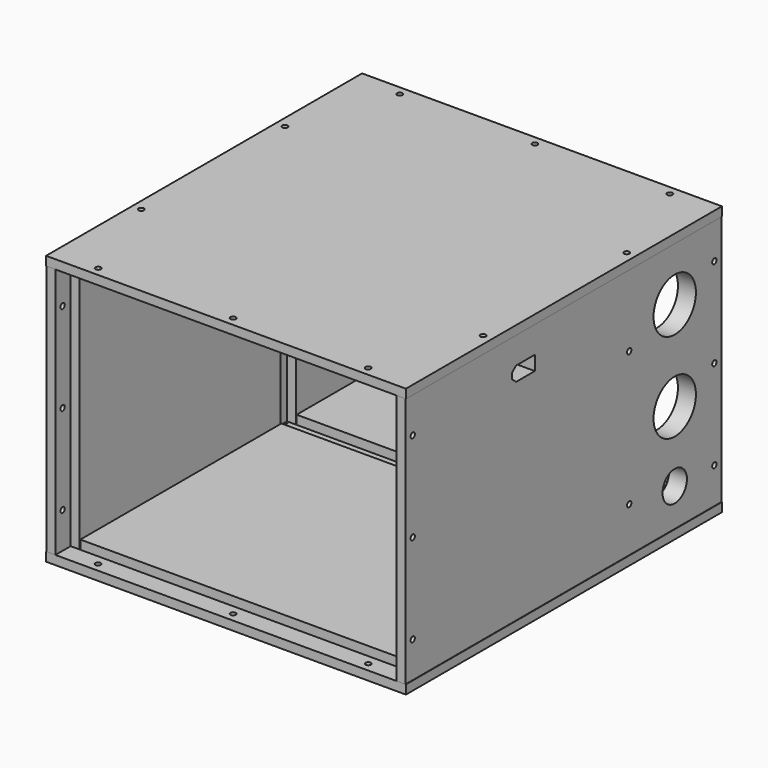
from build123d import *

# Parameters (mm, degrees)
SKETCH_W                = 200.4
SKETCH_H                = 220
PAD_DEPTH               = 5
SKETCH001_W             = 179.2
SKETCH001_H             = 48.2
SKETCH001_H_2           = 140
PAD001_DEPTH            = 5
SKETCH002_R             = 1.5
POCKET_DEPTH            = 5
SKETCH003_W             = 200.4
SKETCH003_H             = 220
PAD002_DEPTH            = 5
SKETCH004_W             = 179.2
SKETCH004_H             = 48.2
SKETCH004_H_2           = 140
PAD003_DEPTH            = 5
SKETCH005_R             = 1.5
POCKET001_DEPTH         = 5
BODY001_PLACEMENT_ANGLE = 180
SKETCH006_W             = 220
SKETCH006_H             = 140
PAD004_DEPTH            = 5
PAD005_DEPTH            = 5
SKETCH008_R             = 1.5
POCKET002_DEPTH         = 5
SKETCH009_W             = 220
SKETCH009_H             = 140
PAD006_DEPTH            = 5
PAD007_DEPTH            = 5
SKETCH011_R             = 1.5
POCKET003_DEPTH         = 5
SKETCH012_R             = 14.75
SKETCH012_R_2           = 8.5
POCKET004_DEPTH         = 10
BODY003_PLACEMENT_ANGLE = 180


with BuildPart() as grundplatte:
    # Sketch → Pad (new body)
    with BuildSketch(Plane.XY):
        Rectangle(SKETCH_W, SKETCH_H)
    extrude(amount=PAD_DEPTH)

    # Sketch001 (on Face6 of Pad) → Pad001 (join)
    with BuildSketch(Plane.XY.offset(5)):
        with Locations((0, 75.3)):
            Rectangle(SKETCH001_W, SKETCH001_H)
        with Locations((0, -29.4)):
            Rectangle(SKETCH001_W, SKETCH001_H_2)
    extrude(amount=PAD001_DEPTH)

    # Sketch002 (on Face5 of Pad001) → Pocket (cut)
    with BuildSketch(Plane.XY.offset(5)):
        with Locations((-75.2, 105)):
            Circle(SKETCH002_R)
        with Locations((0, 105)):
            Circle(SKETCH002_R)
        with Locations((75.2, 105)):
            Circle(SKETCH002_R)
        with Locations((-75.2, -105)):
            Circle(SKETCH002_R)
        with Locations((0, -105)):
            Circle(SKETCH002_R)
        with Locations((75.2, -105)):
            Circle(SKETCH002_R)
        with Locations((-95.2, 50)):
            Circle(SKETCH002_R)
        with Locations((-95.2, -50)):
            Circle(SKETCH002_R)
        with Locations((95.2, 50)):
            Circle(SKETCH002_R)
        with Locations((95.2, -50)):
            Circle(SKETCH002_R)
    extrude(amount=-POCKET_DEPTH, mode=Mode.SUBTRACT)


with BuildPart() as deckel:
    # Sketch003 → Pad002 (new body)
    with BuildSketch(Plane.XY):
        Rectangle(SKETCH003_W, SKETCH003_H)
    extrude(amount=PAD002_DEPTH)

    # Sketch004 (on Face6 of Pad002) → Pad003 (join)
    with BuildSketch(Plane.XY.offset(5)):
        with Locations((0, 75.3)):
            Rectangle(SKETCH004_W, SKETCH004_H)
        with Locations((0, -29.4)):
            Rectangle(SKETCH004_W, SKETCH004_H_2)
    extrude(amount=PAD003_DEPTH)

    # Sketch005 (on Face5 of Pad003) → Pocket001 (cut)
    with BuildSketch(Plane.XY.offset(5)):
        with Locations((-75.2, 105)):
            Circle(SKETCH005_R)
        with Locations((0, 105)):
            Circle(SKETCH005_R)
        with Locations((75.2, 105)):
            Circle(SKETCH005_R)
        with Locations((-75.2, -105)):
            Circle(SKETCH005_R)
        with Locations((0, -105)):
            Circle(SKETCH005_R)
        with Locations((75.2, -105)):
            Circle(SKETCH005_R)
        with Locations((-95.2, 50)):
            Circle(SKETCH005_R)
        with Locations((-95.2, -50)):
            Circle(SKETCH005_R)
        with Locations((95.2, 50)):
            Circle(SKETCH005_R)
        with Locations((95.2, -50)):
            Circle(SKETCH005_R)
    extrude(amount=-POCKET001_DEPTH, mode=Mode.SUBTRACT)


with BuildPart() as deckel_1:
    # Body001 placement: moved
    add(deckel.part.moved(Location((0, 0, 150))).rotate(Axis((0, 0, 150), (0, 1, 0)), BODY001_PLACEMENT_ANGLE))


with BuildPart() as obj1:
    # Sketch006 → Pad004 (new body)
    with BuildSketch(Plane.YZ):
        with Locations((0, 75)):
            Rectangle(SKETCH006_W, SKETCH006_H)
    extrude(amount=PAD004_DEPTH)

    # Sketch007 (on Face6 of Pad004) → Pad005 (join)
    with BuildSketch(Plane.YZ.offset(5)):
        Polygon((-99.4, 5), (-99.4, 145), (99.4, 145), (99.4, 5), (51.2, 5), (51.2, 135), (40.6, 135), (40.6, 5), align=None)
    extrude(amount=PAD005_DEPTH)

    # Sketch008 (on Face5 of Pad005) → Pocket002 (cut)
    with BuildSketch(Plane.YZ.offset(5)):
        with Locations((-105, 125)):
            Circle(SKETCH008_R)
        with Locations((-105, 75)):
            Circle(SKETCH008_R)
        with Locations((-105, 25)):
            Circle(SKETCH008_R)
        with Locations((105, 125)):
            Circle(SKETCH008_R)
        with Locations((105, 75)):
            Circle(SKETCH008_R)
        with Locations((105, 25)):
            Circle(SKETCH008_R)
        with Locations((45.3, 105)):
            Circle(SKETCH008_R)
        with Locations((45.3, 30)):
            Circle(SKETCH008_R)
    extrude(amount=-POCKET002_DEPTH, mode=Mode.SUBTRACT)


with BuildPart() as obj1_1:
    # Body002 placement: moved
    add(obj1.part.moved(Location((-100, 0, 0))))


with BuildPart() as obj2:
    # Sketch009 → Pad006 (new body)
    with BuildSketch(Plane.YZ):
        with Locations((0, 75)):
            Rectangle(SKETCH009_W, SKETCH009_H)
    extrude(amount=PAD006_DEPTH)

    # Sketch010 (on Face6 of Pad006) → Pad007 (join)
    with BuildSketch(Plane.YZ.offset(5)):
        Polygon((-99.4, 5), (-99.4, 145), (99.4, 145), (99.4, 5), (-40.6, 5), (-40.6, 135), (-51.2, 135), (-51.2, 5), align=None)
    extrude(amount=PAD007_DEPTH)

    # Sketch011 (on Face5 of Pad007) → Pocket003 (cut)
    with BuildSketch(Plane.YZ.offset(5)):
        with Locations((-105, 125)):
            Circle(SKETCH011_R)
        with Locations((-105, 75)):
            Circle(SKETCH011_R)
        with Locations((-105, 25)):
            Circle(SKETCH011_R)
        with Locations((105, 125)):
            Circle(SKETCH011_R)
        with Locations((105, 75)):
            Circle(SKETCH011_R)
        with Locations((105, 25)):
            Circle(SKETCH011_R)
        with Locations((-45.7, 105)):
            Circle(SKETCH011_R)
        with Locations((-45.7, 30)):
            Circle(SKETCH011_R)
    extrude(amount=-POCKET003_DEPTH, mode=Mode.SUBTRACT)

    # Sketch012 (on Face21 of Pocket003) → Pocket004 (cut)
    with BuildSketch(Plane.YZ.offset(10)):
        with Locations((-77.4, 115)):
            Circle(SKETCH012_R)
        with Locations((-77.4, 65)):
            Circle(SKETCH012_R)
        with Locations((-77.4, 26)):
            Circle(SKETCH012_R_2)
        Polygon((20, 130), (33, 130), (36, 127.5), (36, 124.5), (33, 122), (20, 122), align=None)
    extrude(amount=-POCKET004_DEPTH, mode=Mode.SUBTRACT)


with BuildPart() as obj2_1:
    # Body003 placement: moved
    add(obj2.part.moved(Location((100, 0, 0))).rotate(Axis((100, 0, 0), (0, 0, 1)), BODY003_PLACEMENT_ANGLE))


solid = Compound([grundplatte.part, deckel_1.part, obj1_1.part, obj2_1.part])
